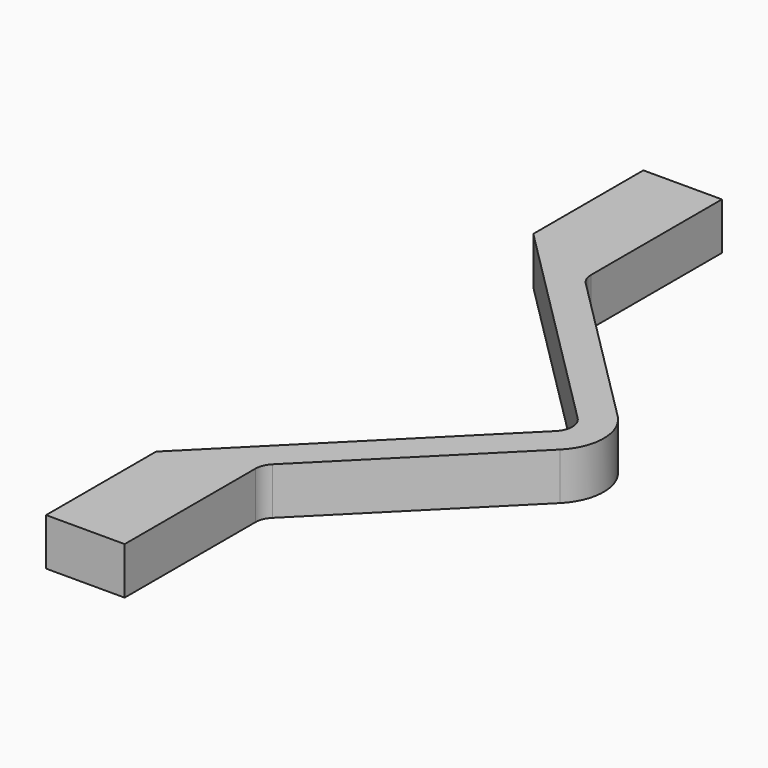
from build123d import *

# Parameters (mm, degrees)
F1_DEPTH = 12


with BuildPart() as f1:
    # F0 (on Top) → F1 (new body)
    with BuildSketch(Plane.XY):
        with BuildLine():
            ThreePointArc((-9.192388, -9.192388), (-5.384776, 0), (-9.192388, 9.192388))
            Line((-9.192388, 9.192388), (-49.849242, 49.849242))
            ThreePointArc((-49.849242, 49.849242), (-50.933106, 51.471359), (-51.313708, 53.384776))
            Line((-51.313708, 53.384776), (-51.313708, 95))
            Line((-51.313708, 95), (-71.313708, 95))
            Line((-71.313708, 95), (-71.313708, 60))
            Line((-71.313708, 60), (-14.849242, 3.535534))
            ThreePointArc((-14.849242, 3.535534), (-13.384776, 0), (-14.849242, -3.535534))
            Line((-14.849242, -3.535534), (-71.313708, -60))
            Line((-71.313708, -60), (-71.313708, -95))
            Line((-71.313708, -95), (-51.313708, -95))
            Line((-51.313708, -95), (-51.313708, -53.384776))
            ThreePointArc((-51.313708, -53.384776), (-50.933106, -51.471359), (-49.849242, -49.849242))
            Line((-49.849242, -49.849242), (-9.192388, -9.192388))
        make_face()
    extrude(amount=F1_DEPTH)


solid = f1.part
